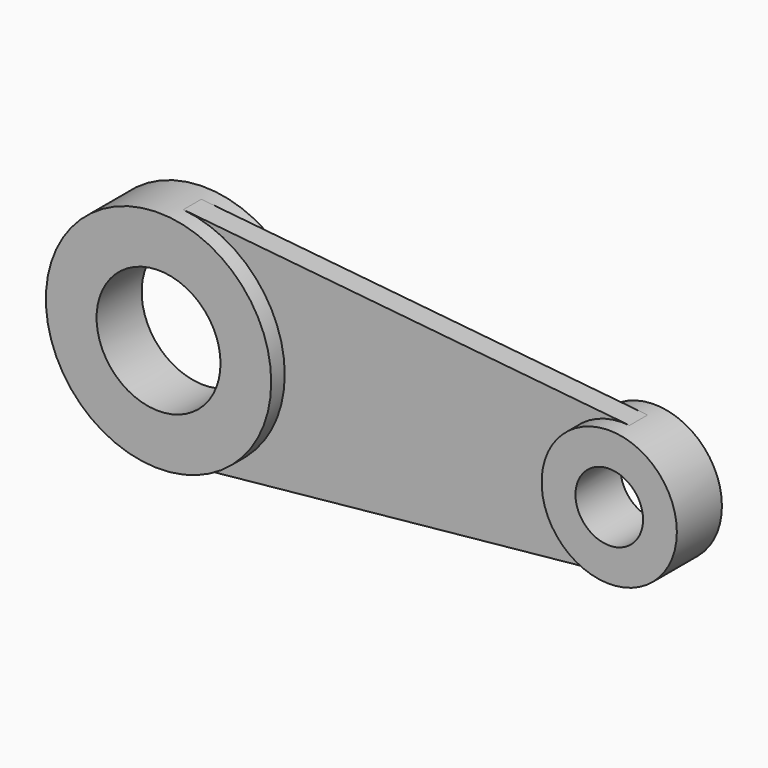
from build123d import *

# Parameters (mm, degrees)
F1_DEPTH = 5
F0_R     = 27.5
F0_R_2   = 15
F2_DEPTH = 12.5


with BuildPart() as f1:
    # F0 (on Front) → F1 (new body, symmetric)
    with BuildSketch(Plane.XZ):
        with BuildLine():
            ThreePointArc((-195, 49.7493718553), (-162.9190075645, 33.5410196625), (-150, 0))
            ThreePointArc((-150, 0), (-162.9190075645, -33.5410196625), (-195, -49.7493718553))
            Line((-195, -49.7493718553), (3, -29.8496231132))
            ThreePointArc((3, -29.8496231132), (-30, 0), (3, 29.8496231132))
            Line((3, 29.8496231132), (-195, 49.7493718553))
        make_face()
    extrude(amount=F1_DEPTH, both=True)

    # F0 (on Front) → F2 (join, symmetric)
    with BuildSketch(Plane.XZ):
        with BuildLine():
            ThreePointArc((-195, -49.7493718553), (-162.9190075645, -33.5410196625), (-150, 0))
            ThreePointArc((-150, 0), (-162.9190075645, 33.5410196625), (-195, 49.7493718553))
            ThreePointArc((-195, 49.7493718553), (-250, 0), (-195, -49.7493718553))
        make_face()
        with Locations((-200, 0)):
            Circle(F0_R, mode=Mode.SUBTRACT)
        with BuildLine():
            ThreePointArc((30, 0), (22.2485954613, 20.1246117975), (3, 29.8496231132))
            ThreePointArc((3, 29.8496231132), (-30, 0), (3, -29.8496231132))
            ThreePointArc((3, -29.8496231132), (22.2485954613, -20.1246117975), (30, 0))
        make_face()
        Circle(F0_R_2, mode=Mode.SUBTRACT)
    extrude(amount=F2_DEPTH, both=True)


solid = f1.part
